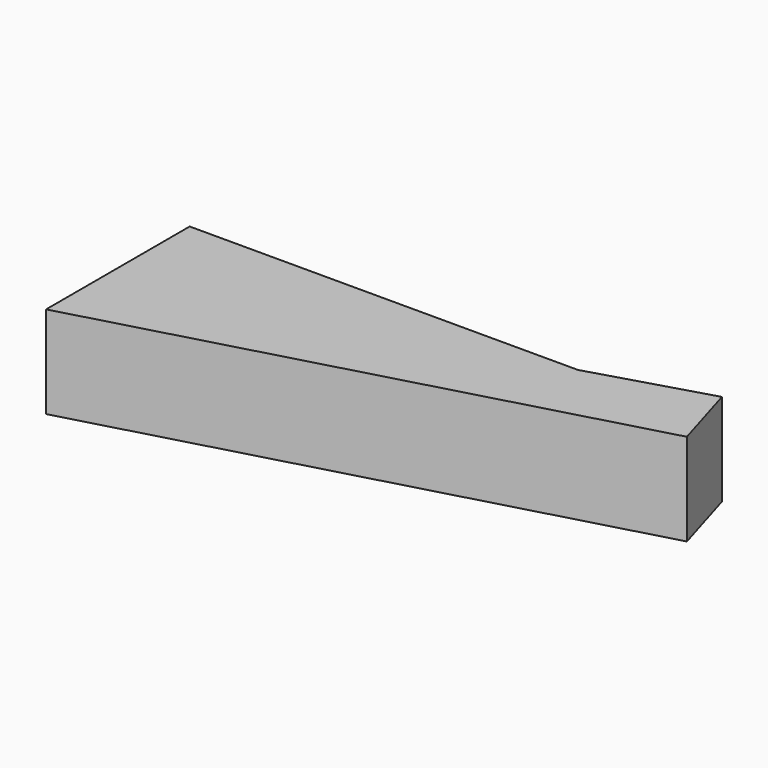
from build123d import *

# Parameters (mm, degrees)
F1_DEPTH = 38
F2_T     = -2
F3_R     = 12.5
F4_DEPTH = 25


with BuildPart() as f1:
    # F0 (on Top) → F1 (new body)
    with BuildSketch(Plane.XY):
        Polygon((160, 0), (0, 0), (0, -73.9635457095), (160, -30), (216.4829908138, -14.4800465722), (207.9198667331, 14.2718734677), align=None)
    extrude(amount=F1_DEPTH)

    # F2
    f2_openings = [f1.faces().sort_by_distance(p)[0] for p in [
        (87.670015, -24.375583, 0),
    ]]
    offset(amount=F2_T, openings=f2_openings, kind=Kind.INTERSECTION)

    # F3 (on face) → F4 (cut)
    with BuildSketch(Plane(origin=(13.0359278258, -43.7700015747, 0), x_dir=(-0.9583973347, -0.2854374694, 0), z_dir=(-0.2854374694, 0.9583973347, 0))):
        with Locations((-175.843573546, 21)):
            Circle(F3_R)
    extrude(amount=-F4_DEPTH, mode=Mode.SUBTRACT)


solid = f1.part
